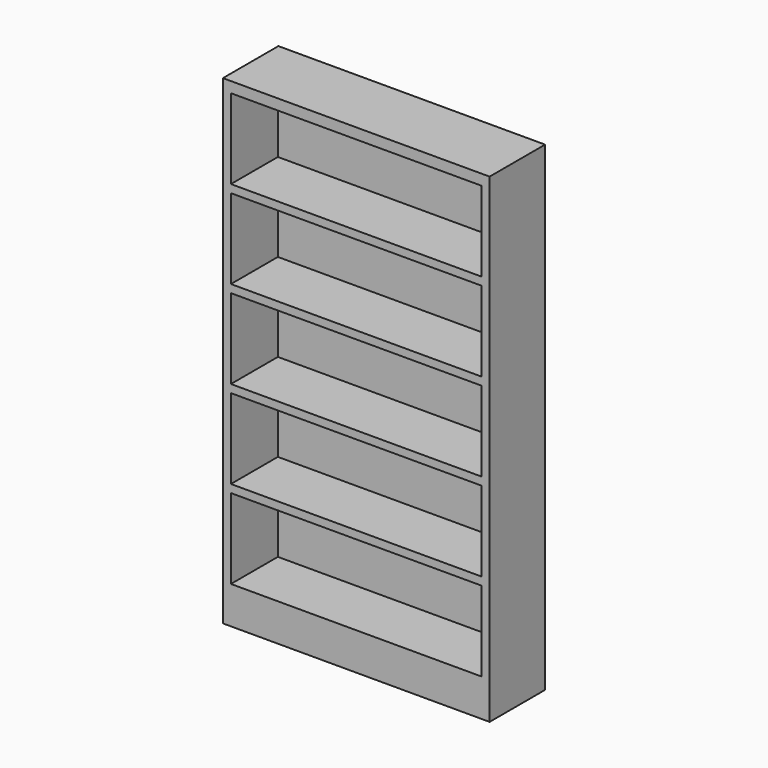
from build123d import *

# Parameters (mm, degrees)
F0_W     = 100
F0_H     = 180
F0_W_2   = 94
F0_H_2   = 30
F1_DEPTH = 4
F2_DEPTH = 26


with BuildPart() as f1:
    # F0 (on Front) → F1 (new body)
    with BuildSketch(Plane.XZ):
        Rectangle(F0_W, F0_H)
        with Locations((0, -61)):
            Rectangle(F0_W_2, F0_H_2, mode=Mode.SUBTRACT)
        with Locations((0, -28)):
            Rectangle(F0_W_2, F0_H_2, mode=Mode.SUBTRACT)
        with Locations((0, 5)):
            Rectangle(F0_W_2, F0_H_2, mode=Mode.SUBTRACT)
        with Locations((0, 38)):
            Rectangle(F0_W_2, F0_H_2, mode=Mode.SUBTRACT)
        with Locations((0, 71)):
            Rectangle(F0_W_2, F0_H_2, mode=Mode.SUBTRACT)
        with Locations((0, 71)):
            Rectangle(F0_W_2, F0_H_2)
        with Locations((0, 38)):
            Rectangle(F0_W_2, F0_H_2)
        with Locations((0, 5)):
            Rectangle(F0_W_2, F0_H_2)
        with Locations((0, -28)):
            Rectangle(F0_W_2, F0_H_2)
        with Locations((0, -61)):
            Rectangle(F0_W_2, F0_H_2)
    extrude(amount=F1_DEPTH)

    # F0 (on Front) → F2 (join)
    with BuildSketch(Plane.XZ):
        Rectangle(F0_W, F0_H)
        with Locations((0, -61)):
            Rectangle(F0_W_2, F0_H_2, mode=Mode.SUBTRACT)
        with Locations((0, -28)):
            Rectangle(F0_W_2, F0_H_2, mode=Mode.SUBTRACT)
        with Locations((0, 5)):
            Rectangle(F0_W_2, F0_H_2, mode=Mode.SUBTRACT)
        with Locations((0, 38)):
            Rectangle(F0_W_2, F0_H_2, mode=Mode.SUBTRACT)
        with Locations((0, 71)):
            Rectangle(F0_W_2, F0_H_2, mode=Mode.SUBTRACT)
    extrude(amount=F2_DEPTH)


solid = f1.part
